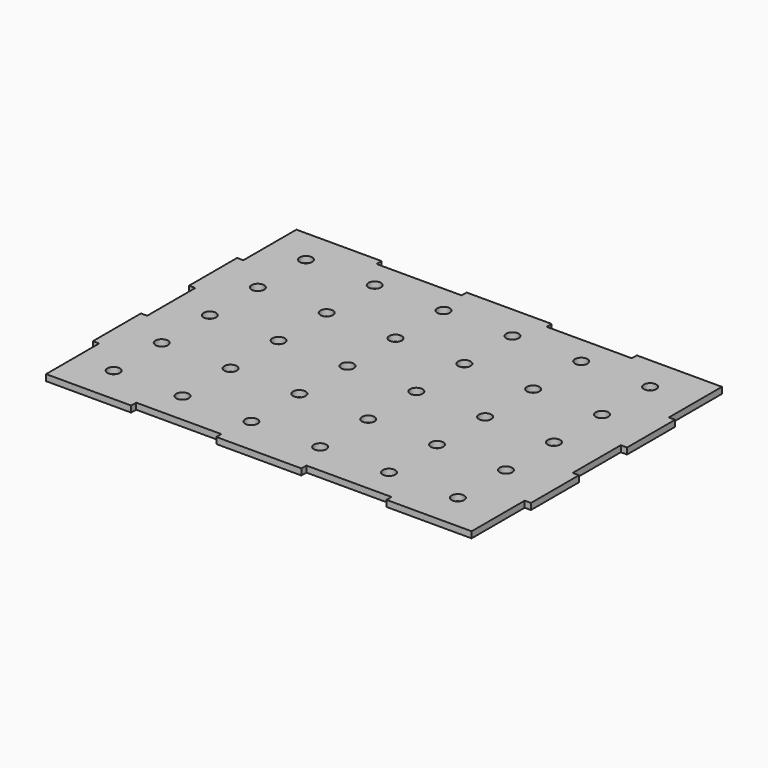
from build123d import *

# Parameters (mm, degrees)
F0_W     = 68
F0_H     = 5
F0_R     = 5
F0_W_2   = 5
F0_H_2   = 48
F1_DEPTH = 5


with BuildPart() as f1:
    # F0 (on Top) → F1 (new body)
    with BuildSketch(Plane.XY):
        with Locations((136, -122.5)):
            Rectangle(F0_W, F0_H)
        Polygon((102, -120), (170, -120), (170, -72), (170, -24), (170, 24), (170, 72), (170, 120), (102, 120), (34, 120), (-34, 120), (-102, 120), (-170, 120), (-170, 72), (-170, 24), (-170, -24), (-170, -72), (-170, -120), (-102, -120), (-34, -120), (34, -120), align=None)
        with Locations((-140, -95)):
            Circle(F0_R, mode=Mode.SUBTRACT)
        with Locations((-85, -95)):
            Circle(F0_R, mode=Mode.SUBTRACT)
        with Locations((-30, -95)):
            Circle(F0_R, mode=Mode.SUBTRACT)
        with Locations((-140, -47)):
            Circle(F0_R, mode=Mode.SUBTRACT)
        with Locations((-85, -47)):
            Circle(F0_R, mode=Mode.SUBTRACT)
        with Locations((-30, -47)):
            Circle(F0_R, mode=Mode.SUBTRACT)
        with Locations((25, -95)):
            Circle(F0_R, mode=Mode.SUBTRACT)
        with Locations((80, -95)):
            Circle(F0_R, mode=Mode.SUBTRACT)
        with Locations((135, -95)):
            Circle(F0_R, mode=Mode.SUBTRACT)
        with Locations((25, -47)):
            Circle(F0_R, mode=Mode.SUBTRACT)
        with Locations((80, -47)):
            Circle(F0_R, mode=Mode.SUBTRACT)
        with Locations((135, -47)):
            Circle(F0_R, mode=Mode.SUBTRACT)
        with Locations((-140, 1)):
            Circle(F0_R, mode=Mode.SUBTRACT)
        with Locations((-140, 49)):
            Circle(F0_R, mode=Mode.SUBTRACT)
        with Locations((-85, 1)):
            Circle(F0_R, mode=Mode.SUBTRACT)
        with Locations((-30, 1)):
            Circle(F0_R, mode=Mode.SUBTRACT)
        with Locations((-85, 49)):
            Circle(F0_R, mode=Mode.SUBTRACT)
        with Locations((-30, 49)):
            Circle(F0_R, mode=Mode.SUBTRACT)
        with Locations((-140, 97)):
            Circle(F0_R, mode=Mode.SUBTRACT)
        with Locations((-85, 97)):
            Circle(F0_R, mode=Mode.SUBTRACT)
        with Locations((-30, 97)):
            Circle(F0_R, mode=Mode.SUBTRACT)
        with Locations((25, 1)):
            Circle(F0_R, mode=Mode.SUBTRACT)
        with Locations((80, 1)):
            Circle(F0_R, mode=Mode.SUBTRACT)
        with Locations((25, 49)):
            Circle(F0_R, mode=Mode.SUBTRACT)
        with Locations((80, 49)):
            Circle(F0_R, mode=Mode.SUBTRACT)
        with Locations((135, 1)):
            Circle(F0_R, mode=Mode.SUBTRACT)
        with Locations((135, 49)):
            Circle(F0_R, mode=Mode.SUBTRACT)
        with Locations((25, 97)):
            Circle(F0_R, mode=Mode.SUBTRACT)
        with Locations((80, 97)):
            Circle(F0_R, mode=Mode.SUBTRACT)
        with Locations((135, 97)):
            Circle(F0_R, mode=Mode.SUBTRACT)
        with Locations((172.5, -48)):
            Rectangle(F0_W_2, F0_H_2)
        with Locations((0, -122.5)):
            Rectangle(F0_W, F0_H)
        with Locations((172.5, 48)):
            Rectangle(F0_W_2, F0_H_2)
        with Locations((-136, -122.5)):
            Rectangle(F0_W, F0_H)
        with Locations((136, 122.5)):
            Rectangle(F0_W, F0_H)
        with Locations((-172.5, -48)):
            Rectangle(F0_W_2, F0_H_2)
        with Locations((0, 122.5)):
            Rectangle(F0_W, F0_H)
        with Locations((-172.5, 48)):
            Rectangle(F0_W_2, F0_H_2)
        with Locations((-136, 122.5)):
            Rectangle(F0_W, F0_H)
    extrude(amount=F1_DEPTH)


solid = f1.part
